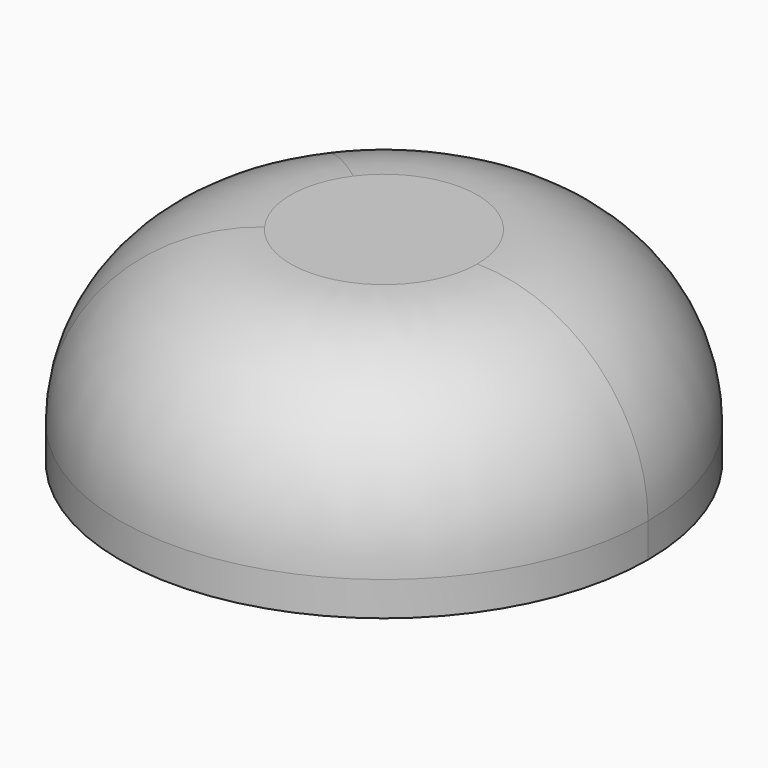
from build123d import *

# Parameters (mm, degrees)
F1_DEPTH = 15.24
F2_R     = 12.7


with BuildPart() as f1:
    # F0 (on Top) → F1 (new body)
    with BuildSketch(Plane.XY):
        with BuildLine():
            ThreePointArc((20.073606, -11.580395), (42.034545, -18.678742), (55.590871, 0))
            ThreePointArc((55.590871, 0), (42.103027, 18.656274), (20.158998, 11.696525))
            ThreePointArc((20.158998, 11.696525), (16.297954, 0.072073), (20.073606, -11.580395))
        make_face()
    extrude(amount=F1_DEPTH)

    # F2
    f2_edges = [f1.edges().sort_by_distance(p)[0] for p in [
        (51.729694, -11.696525, 15.24),
    ]]
    fillet(f2_edges, radius=F2_R)


solid = f1.part
